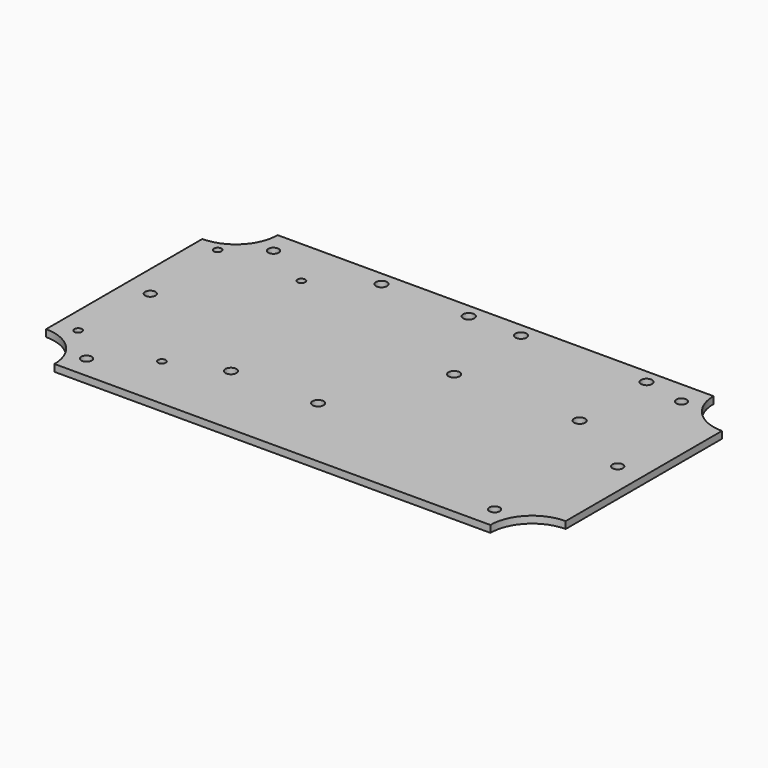
from build123d import *

# Parameters (mm, degrees)
SKETCH_R      = 1.5
PAD_DEPTH     = 2
SKETCH001_R   = 1.1
SKETCH001_R_2 = 1.6
POCKET_DEPTH  = 2.001


with BuildPart() as part:
    # Sketch → Pad (new body)
    with BuildSketch(Plane.XY):
        with BuildLine():
            Line((0, 68), (0, 12))
            ThreePointArc((12, 0), (8.485281, 8.485281), (0, 12))
            Line((12, 0), (137, 0))
            ThreePointArc((149, 12), (140.514719, 8.485281), (137, 0))
            Line((149, 12), (149, 68))
            ThreePointArc((137, 80), (140.514719, 71.514719), (149, 68))
            Line((137, 80), (12, 80))
            ThreePointArc((0, 68), (8.485281, 71.514719), (12, 80))
        make_face()
        with Locations((16, 73.5)):
            Circle(SKETCH_R, mode=Mode.SUBTRACT)
        with Locations((7.5, 40)):
            Circle(SKETCH_R, mode=Mode.SUBTRACT)
        with Locations((16, 6.5)):
            Circle(SKETCH_R, mode=Mode.SUBTRACT)
        with Locations((133, 6.5)):
            Circle(SKETCH_R, mode=Mode.SUBTRACT)
        with Locations((141.5, 40)):
            Circle(SKETCH_R, mode=Mode.SUBTRACT)
        with Locations((133, 73.5)):
            Circle(SKETCH_R, mode=Mode.SUBTRACT)
    extrude(amount=PAD_DEPTH)

    # Sketch001 (on Face16 of Pad) → Pocket (cut, through all)
    with BuildSketch(Plane.XY.offset(2)):
        with Locations((6, 66)):
            Circle(SKETCH001_R)
        with Locations((30, 66)):
            Circle(SKETCH001_R)
        with Locations((30, 16)):
            Circle(SKETCH001_R)
        with Locations((6, 16)):
            Circle(SKETCH001_R)
        with Locations((45, 22)):
            Circle(SKETCH001_R_2)
        with Locations((70, 22)):
            Circle(SKETCH001_R_2)
        with Locations((70, 76)):
            Circle(SKETCH001_R_2)
        with Locations((45, 76)):
            Circle(SKETCH001_R_2)
        with Locations((85, 76)):
            Circle(SKETCH001_R_2)
        with Locations((85, 52)):
            Circle(SKETCH001_R_2)
        with Locations((121, 52)):
            Circle(SKETCH001_R_2)
        with Locations((121, 76)):
            Circle(SKETCH001_R_2)
    extrude(amount=-POCKET_DEPTH, mode=Mode.SUBTRACT)


solid = part.part
